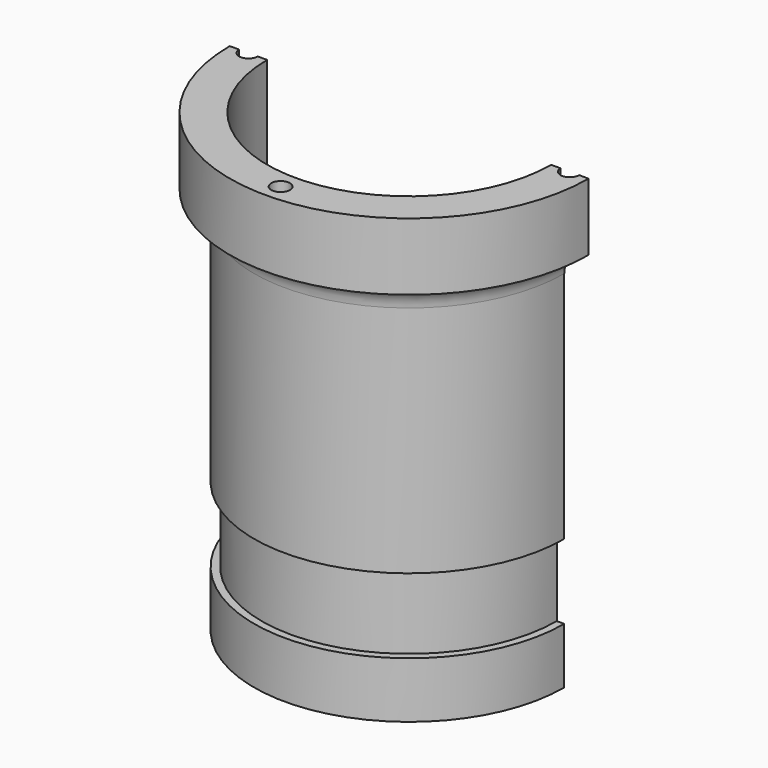
from build123d import *

# Parameters (mm, degrees)
F2_W      = 103.9337478578
F2_H      = 131.3569024205
F3_DEPTH  = 50
F4_R      = 8
F5_DEPTH  = 7
F6_R      = 7.5
F7_DEPTH  = 2
F8_R      = 6.5
F9_DEPTH  = 11
F10_R     = 3.5
F11_DEPTH = 11
F12_R     = 1.5
F13_DEPTH = 4
F14_R     = 2.5
F15_DEPTH = 15
F17_START = -4
F16_R     = 6.5
F17_DEPTH = 21.001
F19_DEPTH = 3


with BuildPart() as f1:
    # F0 (on Front) → F1 (revolve)
    with BuildSketch(Plane.XZ):
        with BuildLine():
            Line((58.2725809174, 57.0314990246), (54.7725809174, 57.0314990246))
            Line((54.7725809174, 57.0314990246), (54.7725809174, -8.9685009754))
            Line((54.7725809174, -8.9685009754), (33.7725809174, -8.9685009754))
            Line((33.7725809174, -8.9685009754), (33.7725809174, 2.9023842439))
            Line((33.7725809174, 2.9023842439), (30.7725809174, 4.9023842439))
            Line((30.7725809174, 4.9023842439), (28.7725809174, 4.9023842439))
            Line((28.7725809174, 4.9023842439), (28.7725809174, -8.9685009754))
            Line((28.7725809174, -8.9685009754), (26.7725809174, -8.9685009754))
            Line((26.7725809174, -8.9685009754), (26.7725809174, -10.9685009754))
            Line((26.7725809174, -10.9685009754), (26.7725809174, -21.9685009754))
            Line((26.7725809174, -21.9685009754), (16.7725809174, -21.9685009754))
            Line((16.7725809174, -21.9685009754), (16.7725809174, -59.4685009754))
            Line((16.7725809174, -59.4685009754), (53.2725809174, -59.4685009754))
            Line((53.2725809174, -59.4685009754), (53.2725809174, -60.9685009754))
            Line((53.2725809174, -60.9685009754), (55.2725809174, -60.9685009754))
            Line((55.2725809174, -60.9685009754), (55.2725809174, -62.9685009754))
            Line((55.2725809174, -62.9685009754), (53.2725809174, -62.9685009754))
            Line((53.2725809174, -62.9685009754), (53.2725809174, -64.9685009754))
            Line((53.2725809174, -64.9685009754), (58.2725809174, -64.9685009754))
            Line((58.2725809174, -64.9685009754), (58.2725809174, -49.9685009754))
            Line((58.2725809174, -49.9685009754), (56.2725809174, -49.9685009754))
            Line((56.2725809174, -49.9685009754), (56.2725809174, -29.9685009754))
            Line((56.2725809174, -29.9685009754), (58.2725809174, -29.9685009754))
            Line((58.2725809174, -29.9685009754), (58.2725809174, 32.5314990246))
            ThreePointArc((58.2725809174, 32.5314990246), (60.1763868397, 37.1276931023), (64.7725809174, 39.0314990246))
            Line((64.7725809174, 39.0314990246), (64.7725809174, 57.0314990246))
            Line((64.7725809174, 57.0314990246), (58.2725809174, 57.0314990246))
        make_face()
    revolve(axis=Axis((16.7725809174, 0, -11.2093901262), (0, 0, 1)))

    # F2 (on Front) → F3 (cut)
    with BuildSketch(Plane.XZ):
        with Locations((15.4789481312, -5.4226405919)):
            Rectangle(F2_W, F2_H)
    extrude(amount=-F3_DEPTH, mode=Mode.SUBTRACT)

    # F4 (on face) → F5 (cut)
    with BuildSketch(Plane.XY.offset(-8.9685009754)):
        with BuildLine():
            Line((-1.7274190826, 0), (-17.7274190826, 0))
            ThreePointArc((-17.7274190826, 0), (-9.7274190826, -8), (-1.7274190826, 0))
        make_face()
        with BuildLine():
            ThreePointArc((36.2725809174, 0), (44.2725809174, -8), (52.2725809174, 0))
            Line((52.2725809174, 0), (36.2725809174, 0))
        make_face()
        with Locations((16.7725809174, -26.5)):
            Circle(F4_R)
    extrude(amount=-F5_DEPTH, mode=Mode.SUBTRACT)

    # F6 (on face) → F7 (cut)
    with BuildSketch(Plane.XY.offset(-15.9685009754)):
        with BuildLine():
            Line((-2.2274190826, 0), (-17.2274190826, 0))
            ThreePointArc((-17.2274190826, 0), (-9.7274190826, -7.5), (-2.2274190826, 0))
        make_face()
        with BuildLine():
            Line((51.7725809174, 0), (36.7725809174, 0))
            ThreePointArc((36.7725809174, 0), (44.2725809174, -7.5), (51.7725809174, 0))
        make_face()
        with Locations((16.7725809174, -26.5)):
            Circle(F6_R)
    extrude(amount=-F7_DEPTH, mode=Mode.SUBTRACT)

    # F8 (on face) → F9 (cut)
    with BuildSketch(Plane.XY.offset(-17.9685009754)):
        with BuildLine():
            Line((-3.2274190826, 0), (-16.2274190826, 0))
            ThreePointArc((-16.2274190826, 0), (-9.7274190826, -6.5), (-3.2274190826, 0))
        make_face()
        with BuildLine():
            Line((50.7725809174, 0), (37.7725809174, 0))
            ThreePointArc((37.7725809174, 0), (44.2725809174, -6.5), (50.7725809174, 0))
        make_face()
        with Locations((16.7725809174, -26.5)):
            Circle(F8_R)
    extrude(amount=-F9_DEPTH, mode=Mode.SUBTRACT)

    # F10 (on face) → F11 (cut)
    with BuildSketch(Plane.XY.offset(-28.9685009754)):
        with BuildLine():
            Line((-6.2274190826, 0), (-13.2274190826, 0))
            ThreePointArc((-13.2274190826, 0), (-9.7274190826, -3.5), (-6.2274190826, 0))
        make_face()
        with BuildLine():
            Line((47.7725809174, 0), (40.7725809174, 0))
            ThreePointArc((40.7725809174, 0), (44.2725809174, -3.5), (47.7725809174, 0))
        make_face()
        with Locations((16.7725809174, -26.5)):
            Circle(F10_R)
    extrude(amount=-F11_DEPTH, mode=Mode.SUBTRACT)

    # F12 (on face) → F13 (cut)
    with BuildSketch(Plane.XY.offset(-39.9685009754)):
        with Locations((-11.7274190826, 0)):
            Circle(F12_R)
        with BuildLine():
            ThreePointArc((44.7725809174, 0), (46.2725809174, -1.5), (47.7725809174, 0))
            Line((47.7725809174, 0), (44.7725809174, 0))
        make_face()
    extrude(amount=-F13_DEPTH, mode=Mode.SUBTRACT)

    # F14 (on face) → F15 (cut)
    with BuildSketch(Plane.XY.offset(57.0314990246)):
        with BuildLine():
            Line((-23.7274190826, 0), (-28.7274190826, 0))
            ThreePointArc((-28.7274190826, 0), (-26.2274190826, -2.5), (-23.7274190826, 0))
        make_face()
        with Locations((16.7725809174, -43)):
            Circle(F14_R)
        with BuildLine():
            ThreePointArc((57.2725809174, 0), (59.7725809174, -2.5), (62.2725809174, 0))
            Line((62.2725809174, 0), (57.2725809174, 0))
        make_face()
    extrude(amount=-F15_DEPTH, mode=Mode.SUBTRACT)

    # F16 (on face) → F17 (cut)
    with BuildSketch(Plane.XY.offset(-39.9685009754).offset(F17_START)):
        with Locations((44.2725809174, 0)):
            Circle(F16_R)
        with BuildLine():
            ThreePointArc((47.7725809174, 0), (44.2725809174, -3.5), (40.7725809174, 0))
            Line((40.7725809174, 0), (44.7725809174, 0))
            ThreePointArc((44.7725809174, 0), (46.2725809174, -1.5), (47.7725809174, 0))
        make_face(mode=Mode.SUBTRACT)
        with BuildLine():
            Line((44.7725809174, 0), (40.7725809174, 0))
            ThreePointArc((40.7725809174, 0), (44.2725809174, -3.5), (47.7725809174, 0))
            ThreePointArc((47.7725809174, 0), (46.2725809174, -1.5), (44.7725809174, 0))
        make_face()
    extrude(amount=-F17_DEPTH, mode=Mode.SUBTRACT)

    # F18 (on face) → F19 (cut)
    with BuildSketch(Plane(origin=(0, 0, -59.4685009754), x_dir=(1, 0, 0), z_dir=(0, 0, -1))):
        with BuildLine():
            Line((50.7725809174, 0), (52.5225809174, 0))
            ThreePointArc((52.5225809174, 0), (44.2725809174, 8.25), (36.0225809174, 0))
            Line((36.0225809174, 0), (37.7725809174, 0))
            ThreePointArc((37.7725809174, 0), (44.2725809174, 6.5), (50.7725809174, 0))
        make_face()
    extrude(amount=-F19_DEPTH, mode=Mode.SUBTRACT)


solid = f1.part
